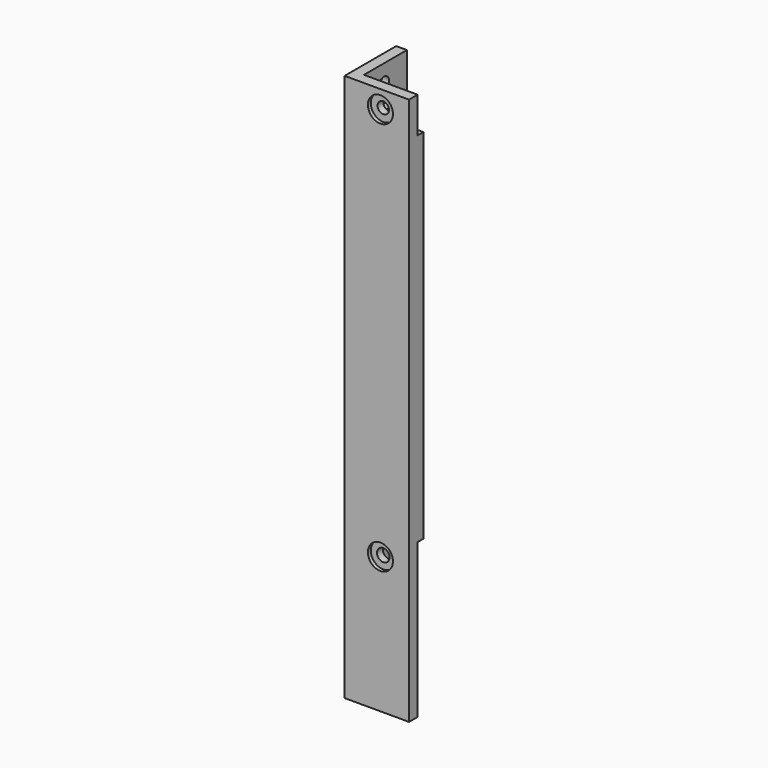
from build123d import *

# Parameters (mm, degrees)
PAD008_DEPTH    = 100
PAD009_DEPTH    = 10
SKETCH021_R     = 1.6
POCKET011_DEPTH = 5
SKETCH022_R     = 3.5
POCKET012_DEPTH = 1
SKETCH023_R     = 1.75
POCKET013_DEPTH = 5
SKETCH024_R     = 3.5
POCKET014_DEPTH = 1
PAD010_DEPTH    = 40
PAD011_DEPTH    = 3
SKETCH027_R     = 1.75
POCKET015_DEPTH = 5
SKETCH028_R     = 3.5
POCKET016_DEPTH = 1
SKETCH029_R     = 1.75
POCKET017_DEPTH = 5
SKETCH030_R     = 3.5
POCKET018_DEPTH = 1


with BuildPart() as part:
    # Sketch019 → Pad008 (new body)
    with BuildSketch(Plane.XY):
        Polygon((-53, -35), (-53, -53), (-35, -53), (-35, -48), (-48, -48), (-48, -35), align=None)
    extrude(amount=PAD008_DEPTH)

    # Sketch020 (on Face8 of Pad008) → Pad009 (join)
    with BuildSketch(Plane.XY.offset(100)):
        Polygon((-53, -35), (-53, -53), (-35, -53), (-35, -50), (-50, -50), (-50, -35), align=None)
    extrude(amount=PAD009_DEPTH)

    # Sketch021 (on Face14 of Pad009) → Pocket011 (cut)
    with BuildSketch(Plane.XZ.offset(53)):
        with Locations((-43, 105)):
            Circle(SKETCH021_R)
    extrude(amount=-POCKET011_DEPTH, mode=Mode.SUBTRACT)

    # Sketch022 (on Face14 of Pocket011) → Pocket012 (cut)
    with BuildSketch(Plane.XZ.offset(53)):
        with Locations((-43, 105)):
            Circle(SKETCH022_R)
    extrude(amount=-POCKET012_DEPTH, mode=Mode.SUBTRACT)

    # Sketch023 (on Face9 of Pocket012) → Pocket013 (cut)
    with BuildSketch(Plane(origin=(-53, 0, 0), x_dir=(0, -1, 0), z_dir=(-1, 0, 0))):
        with Locations((43, 105)):
            Circle(SKETCH023_R)
    extrude(amount=-POCKET013_DEPTH, mode=Mode.SUBTRACT)

    # Sketch024 (on Face9 of Pocket013) → Pocket014 (cut)
    with BuildSketch(Plane(origin=(-53, 0, 0), x_dir=(0, -1, 0), z_dir=(-1, 0, 0))):
        with Locations((43, 105)):
            Circle(SKETCH024_R)
    extrude(amount=-POCKET014_DEPTH, mode=Mode.SUBTRACT)

    # Sketch025 (on Face4 of Pocket014) → Pad010 (join)
    with BuildSketch(Plane(origin=(0, 0, 0), x_dir=(1, 0, 0), z_dir=(0, 0, -1))):
        Polygon((-35, 53), (-53, 53), (-53, 35), (-50, 35), (-50, 50), (-35, 50), align=None)
    extrude(amount=PAD010_DEPTH)

    # Sketch026 (on Face15 of Pad010) → Pad011 (join)
    with BuildSketch(Plane(origin=(0, 0, -40), x_dir=(1, 0, 0), z_dir=(0, 0, -1))):
        Polygon((-35, 50), (-35, 53), (-53, 53), (-53, 35), (-50, 35), align=None)
    extrude(amount=PAD011_DEPTH)

    # Sketch027 (on Face10 of Pad011) → Pocket015 (cut)
    with BuildSketch(Plane(origin=(-53, 0, 0), x_dir=(0, -1, 0), z_dir=(-1, 0, 0))):
        with Locations((43, -5)):
            Circle(SKETCH027_R)
    extrude(amount=-POCKET015_DEPTH, mode=Mode.SUBTRACT)

    # Sketch028 (on Face10 of Pocket015) → Pocket016 (cut)
    with BuildSketch(Plane(origin=(-53, 0, 0), x_dir=(0, -1, 0), z_dir=(-1, 0, 0))):
        with Locations((43, -5)):
            Circle(SKETCH028_R)
    extrude(amount=-POCKET016_DEPTH, mode=Mode.SUBTRACT)

    # Sketch029 (on Face19 of Pocket016) → Pocket017 (cut)
    with BuildSketch(Plane.XZ.offset(53)):
        with Locations((-43, -5)):
            Circle(SKETCH029_R)
    extrude(amount=-POCKET017_DEPTH, mode=Mode.SUBTRACT)

    # Sketch030 (on Face19 of Pocket017) → Pocket018 (cut)
    with BuildSketch(Plane.XZ.offset(53)):
        with Locations((-43, -5)):
            Circle(SKETCH030_R)
    extrude(amount=-POCKET018_DEPTH, mode=Mode.SUBTRACT)


solid = part.part
